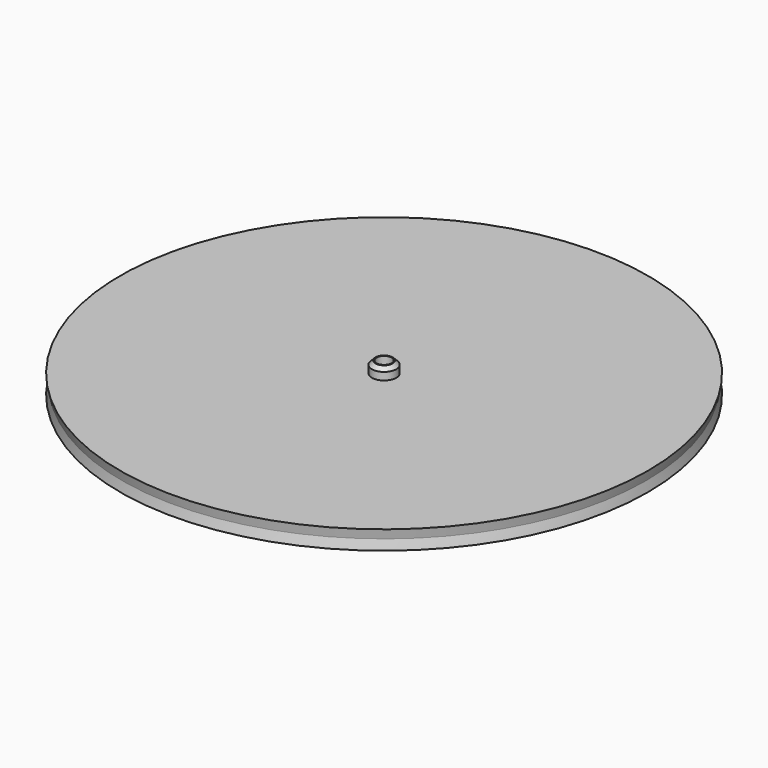
from build123d import *

# Parameters (mm, degrees)
CYLINDER_R        = 0.4
CYLINDER_DEPTH    = 1
FILLET_R          = 0.8
CYLINDER002_R     = 0.4
CYLINDER002_DEPTH = 0.6
CYLINDER001_R     = 0.65
CYLINDER001_DEPTH = 0.6
CHAMFER_SIZE      = 0.2


with BuildPart() as cylinder:
    # Cylinder → Cylinder (new body)
    with BuildSketch(Plane.XY):
        Circle(CYLINDER_R)
    extrude(amount=CYLINDER_DEPTH)


with BuildPart() as cone001:
    # Cone001 → Cone001 (revolve)
    with BuildSketch(Plane.XZ):
        Polygon((0, 0), (14, 0), (13.8, 1), (0, 1), align=None)
    revolve(axis=Axis((0, 0, 0), (0, 0, 1)))


with BuildPart() as fillet_body:
    # Cone → Cone (revolve)
    with BuildSketch(Plane.XZ):
        Polygon((0, 0), (13.8, 0), (14, 1), (0, 1), align=None)
    revolve(axis=Axis((0, 0, 0), (0, 0, 1)))

    # Fusion: union Cone001
    add(cone001.part)

    # Cut: cut Cylinder
    add(cylinder.part, mode=Mode.SUBTRACT)

    # Fillet
    fillet_edges = [fillet_body.edges().sort_by_distance(p)[0] for p in [
        (-0.4, 0, 0),
    ]]
    fillet(fillet_edges, radius=FILLET_R)


with BuildPart() as cylinder002:
    # Cylinder002 → Cylinder002 (new body)
    with BuildSketch(Plane.XY.offset(1)):
        Circle(CYLINDER002_R)
    extrude(amount=CYLINDER002_DEPTH)


with BuildPart() as fusion001:
    # Cylinder001 → Cylinder001 (new body)
    with BuildSketch(Plane.XY.offset(1)):
        Circle(CYLINDER001_R)
    extrude(amount=CYLINDER001_DEPTH)

    # Cut001: cut Cylinder002
    add(cylinder002.part, mode=Mode.SUBTRACT)

    # Chamfer
    chamfer_edges = [fusion001.edges().sort_by_distance(p)[0] for p in [
        (-0.65, 0, 1.6),
    ]]
    chamfer(chamfer_edges, length=CHAMFER_SIZE)

    # Fusion001: union Fillet body
    add(fillet_body.part)


solid = fusion001.part
